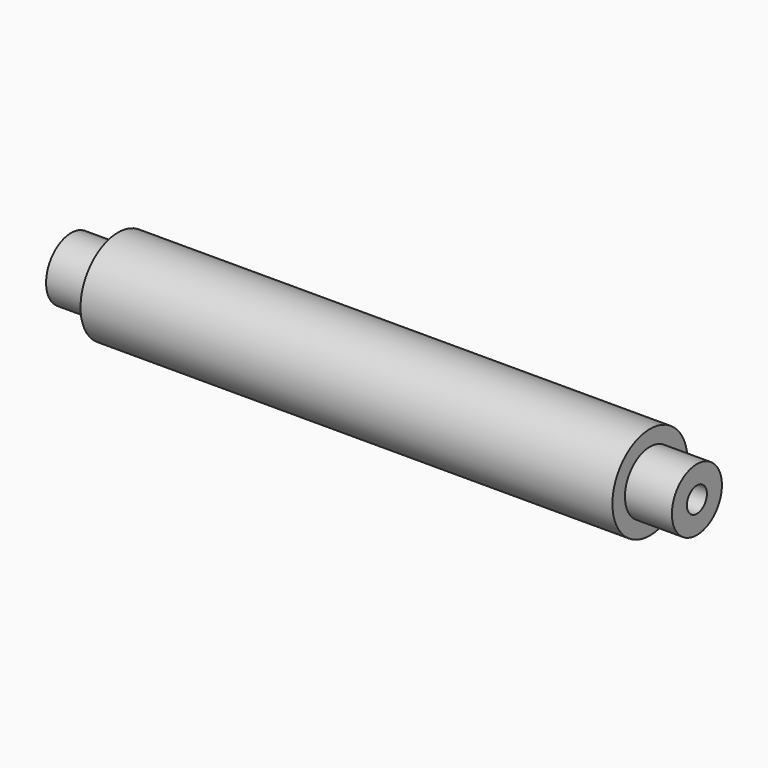
from build123d import *

# Parameters (mm, degrees)
F0_W = 7.5
F0_H = 5
F3_D = 4


with BuildPart() as f1:
    # F0 (on Front) → F1 (revolve)
    with BuildSketch(Plane.XZ):
        with Locations((-46.25, -2.5)):
            Rectangle(F0_W, F0_H)
        Polygon((-42.5, -5), (-42.5, -7.5), (42.5, -7.5), (42.5, -5), (42.5, 0), (-42.5, 0), align=None)
        with Locations((46.25, -2.5)):
            Rectangle(F0_W, F0_H)
    revolve(axis=Axis((0, 0, 0), (1, 0, 0)))

    # F3 (through all)
    with Locations(Plane(origin=(-50, 0, 0), x_dir=(0, -1, 0), z_dir=(-1, 0, 0))):
        with Locations((0, 0)):
            Hole(F3_D / 2)


solid = f1.part
